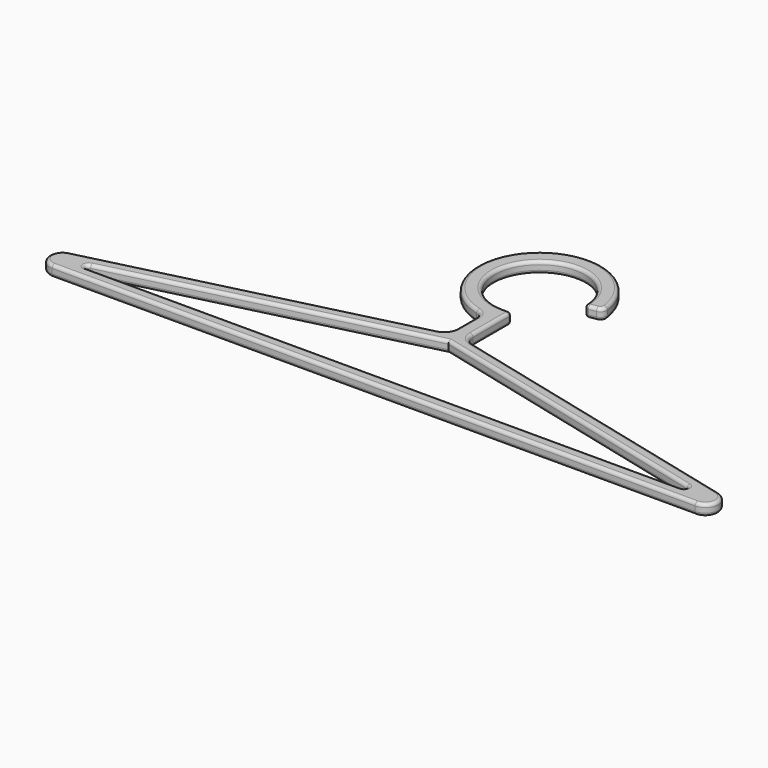
from build123d import *

# Parameters (mm, degrees)
EXTRUDE_DEPTH = 7
FILLET_R      = 2


with BuildPart() as part:
    # Sketch → Extrude (new body)
    with BuildSketch(Plane.XY):
        with BuildLine():
            Line((0, -8), (-200, -8))
            ThreePointArc((-201.9313470249, 7.7633690283), (-207.9406218971, -0.9728945919), (-200, -8))
            Line((-11.0592106679, 55.2486813298), (-201.9313470249, 7.7633690283))
            ThreePointArc((-11.0592106679, 55.2486813298), (-6.6945503084, 58.0807273138), (-5, 63))
            Line((-5, 78), (-5, 63))
            ThreePointArc((-5, 78), (-6.2739038934, 81.7219727078), (-9.5612804343, 83.8827752081))
            ThreePointArc((38.0243728079, 126.3265478617), (-25.5520129566, 149.7078278365), (-9.5612804343, 83.8827752081))
            ThreePointArc((34.7567849717, 121.838567987), (37.295901452, 123.4234148188), (38.0243728079, 126.3265478617))
            Line((34.7567849717, 121.838567987), (30.3429985849, 121.0602983599))
            ThreePointArc((28, 122.8988695574), (28.7610377028, 121.4565087985), (30.3429985849, 121.0602983599))
            ThreePointArc((28, 122.8988695574), (-20.4813476169, 140.2408808288), (0, 93))
            Line((0, 93), (3, 93))
            ThreePointArc((5, 91), (4.4142135624, 92.4142135624), (3, 93))
            Line((5, 83), (5, 91))
            Line((5, 83), (5, 63))
            ThreePointArc((5, 63), (6.6945503084, 58.0807273138), (11.0592106679, 55.2486813298))
            Line((11.0592106679, 55.2486813298), (201.9313749999, 7.7633620687))
            ThreePointArc((200, -8), (207.9406201442, -0.9729088987), (201.9313749999, 7.7633620687))
            Line((0, -8), (200, -8))
        make_face()
        with BuildLine():
            Line((0, 50), (-185.4478624978, 3.6380343755))
            ThreePointArc((-185.4478624978, 3.6380343755), (-186.8327489554, 1.6209626775), (-185, 0))
            Line((0, 0), (-185, 0))
            Line((185, 0), (0, 0))
            ThreePointArc((185, 0), (186.8327489554, 1.6209626775), (185.4478624978, 3.6380343755))
            Line((0, 50), (185.4478624978, 3.6380343755))
        make_face(mode=Mode.SUBTRACT)
    extrude(amount=EXTRUDE_DEPTH)

    # Fillet
    fillet_edges = [part.edges().sort_by_distance(p)[0] for p in [
        (5, 73, 0),
        (5, 73, 7),
        (6.69455, 58.080727, 0),
        (6.69455, 58.080727, 7),
        (106.495293, 31.506022, 0),
        (106.495293, 31.506022, 7),
        (207.94062, -0.972909, 0),
        (207.94062, -0.972909, 7),
        (100, -8, 0),
        (100, -8, 7),
        (-100, -8, 0),
        (-100, -8, 7),
        (-207.940622, -0.972895, 0),
        (-207.940622, -0.972895, 7),
        (-106.495279, 31.506025, 0),
        (-106.495279, 31.506025, 7),
        (-6.69455, 58.080727, 0),
        (-6.69455, 58.080727, 7),
        (-5, 70.5, 0),
        (-5, 70.5, 7),
        (-6.273904, 81.721973, 0),
        (-6.273904, 81.721973, 7),
        (-25.552013, 149.707828, 0),
        (-25.552013, 149.707828, 7),
        (37.295901, 123.423415, 0),
        (37.295901, 123.423415, 7),
        (32.549892, 121.449433, 0),
        (32.549892, 121.449433, 7),
        (28.761038, 121.456509, 0),
        (28.761038, 121.456509, 7),
        (-20.481348, 140.240881, 0),
        (-20.481348, 140.240881, 7),
        (1.5, 93, 0),
        (1.5, 93, 7),
        (4.414214, 92.414214, 0),
        (4.414214, 92.414214, 7),
        (5, 87, 0),
        (5, 87, 7),
        (-92.723931, 26.819017, 0),
        (-92.723931, 26.819017, 7),
        (-186.832749, 1.620963, 0),
        (-186.832749, 1.620963, 7),
        (-92.5, 0, 0),
        (-92.5, 0, 7),
        (92.5, 0, 0),
        (92.5, 0, 7),
        (186.832749, 1.620963, 0),
        (186.832749, 1.620963, 7),
        (92.723931, 26.819017, 0),
        (92.723931, 26.819017, 7),
    ]]
    fillet(fillet_edges, radius=FILLET_R)


solid = part.part
